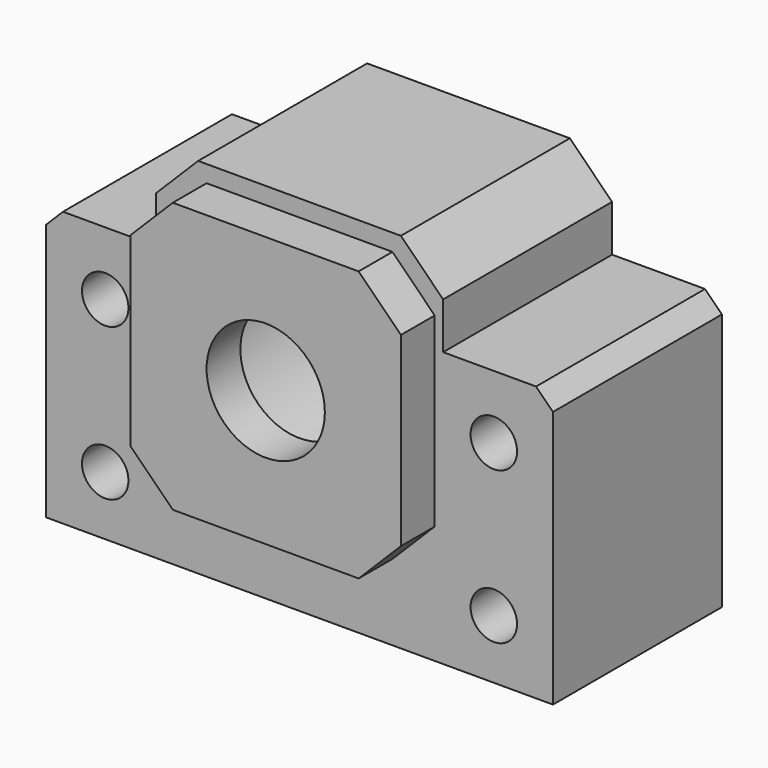
from build123d import *

# Parameters (mm, degrees)
F1_DEPTH  = 12.5
F2_R      = 6
F3_DEPTH  = 25
F4_R      = 13
F5_DEPTH  = 20
F6_W      = 32
F6_H      = 32
F7_DEPTH  = 5
F8_R      = 7
F9_DEPTH  = 5
F10_SIZE  = 5
F11_SIZE  = 5
F12_R     = 2.75
F13_DEPTH = 25
F14_SIZE  = 2


with BuildPart() as f1:
    # F0 (on Front) → F1 (new body, symmetric)
    with BuildSketch(Plane.XZ):
        Polygon((17, 11), (17, 21.5), (-17, 21.5), (-17, 11), (-30, 11), (-30, -21.5), (30, -21.5), (30, 11), align=None)
    extrude(amount=F1_DEPTH, both=True)

    # F2 (on face) → F3 (cut)
    with BuildSketch(Plane.XZ.offset(12.5)):
        with Locations((0, 3.5)):
            Circle(F2_R)
    extrude(amount=-F3_DEPTH, mode=Mode.SUBTRACT)

    # F4 (on face) → F5 (cut)
    with BuildSketch(Plane.XZ.offset(12.5)):
        with Locations((0, 3.5)):
            Circle(F4_R)
    extrude(amount=-F5_DEPTH, mode=Mode.SUBTRACT)

    # F6 (on face) → F7 (join)
    with BuildSketch(Plane.XZ.offset(12.5)):
        with Locations((0, 3.5)):
            Rectangle(F6_W, F6_H)
    extrude(amount=F7_DEPTH)

    # F8 (on face) → F9 (cut)
    with BuildSketch(Plane.XZ.offset(17.5)):
        with Locations((0, 3.5)):
            Circle(F8_R)
    extrude(amount=-F9_DEPTH, mode=Mode.SUBTRACT)

    # F10
    f10_edges = [f1.edges().sort_by_distance(p)[0] for p in [
        (-16, -15, 19.5),
        (-16, -15, -12.5),
        (16, -15, 19.5),
        (16, -15, -12.5),
    ]]
    chamfer(f10_edges, length=F10_SIZE)

    # F11
    f11_edges = [f1.edges().sort_by_distance(p)[0] for p in [
        (17, 0, 21.5),
        (-17, 0, 21.5),
    ]]
    chamfer(f11_edges, length=F11_SIZE)

    # F12 (on face) → F13 (cut)
    with BuildSketch(Plane(origin=(0, 12.5, 0), x_dir=(-1, 0, 0), z_dir=(0, 1, 0))):
        with Locations((-23, 3.5)):
            Circle(F12_R)
        with Locations((23, 3.5)):
            Circle(F12_R)
        with Locations((23, -14.5)):
            Circle(F12_R)
        with Locations((-23, -14.5)):
            Circle(F12_R)
    extrude(amount=-F13_DEPTH, mode=Mode.SUBTRACT)

    # F14
    f14_edges = [f1.edges().sort_by_distance(p)[0] for p in [
        (30, 0, 11),
        (-30, 0, 11),
    ]]
    chamfer(f14_edges, length=F14_SIZE)


solid = f1.part
